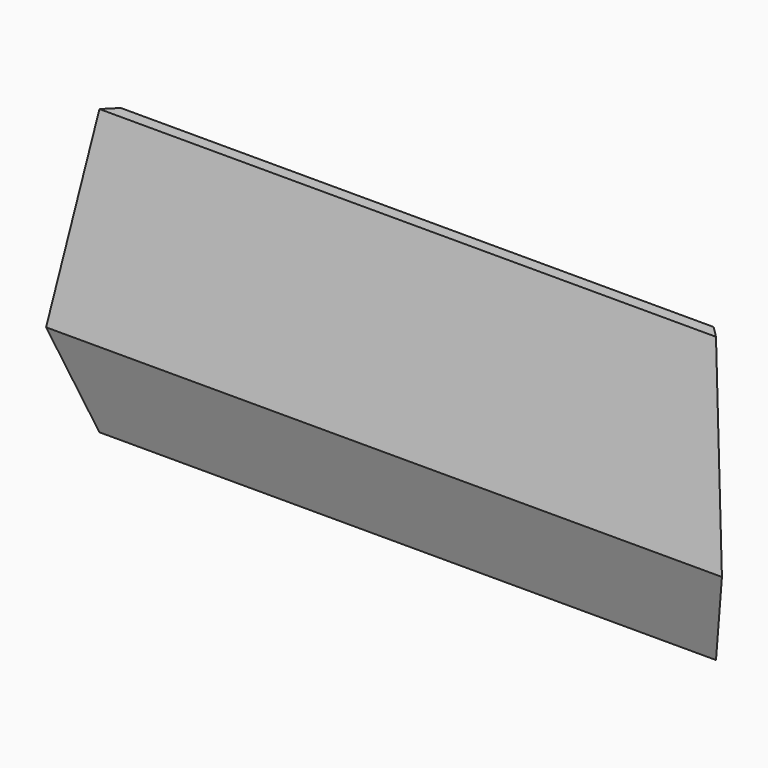
from build123d import *

# Parameters (mm, degrees)
F0_W     = 736.6
F0_H     = 304.8
F1_DEPTH = 44.45
F3_DEPTH = 736.601
F5_DEPTH = 304.801


with BuildPart() as f1:
    # F0 (on Front) → F1 (new body)
    with BuildSketch(Plane.XZ):
        with Locations((294.213133, 152.4)):
            Rectangle(F0_W, F0_H)
    extrude(amount=F1_DEPTH)

    # F2 (on face) → F3 (cut, through all)
    with BuildSketch(Plane.YZ.offset(662.513133)):
        Polygon((-44.45, 101.6), (-12.7, 304.8), (-82.839599, 304.8), (-82.839599, 0), (-12.7, 0), align=None)
    extrude(amount=-F3_DEPTH, mode=Mode.SUBTRACT)

    # F4 (on face) → F5 (cut, through all)
    with BuildSketch(Plane(origin=(0, 0, 0), x_dir=(1, 0, 0), z_dir=(0, 0, -1))):
        Polygon((662.513133, 0), (662.513133, 50.8), (611.713133, 0), align=None)
        Polygon((-23.286867, 0), (-74.086867, 50.8), (-74.086867, 0), align=None)
    extrude(amount=-F5_DEPTH, mode=Mode.SUBTRACT)


solid = f1.part
